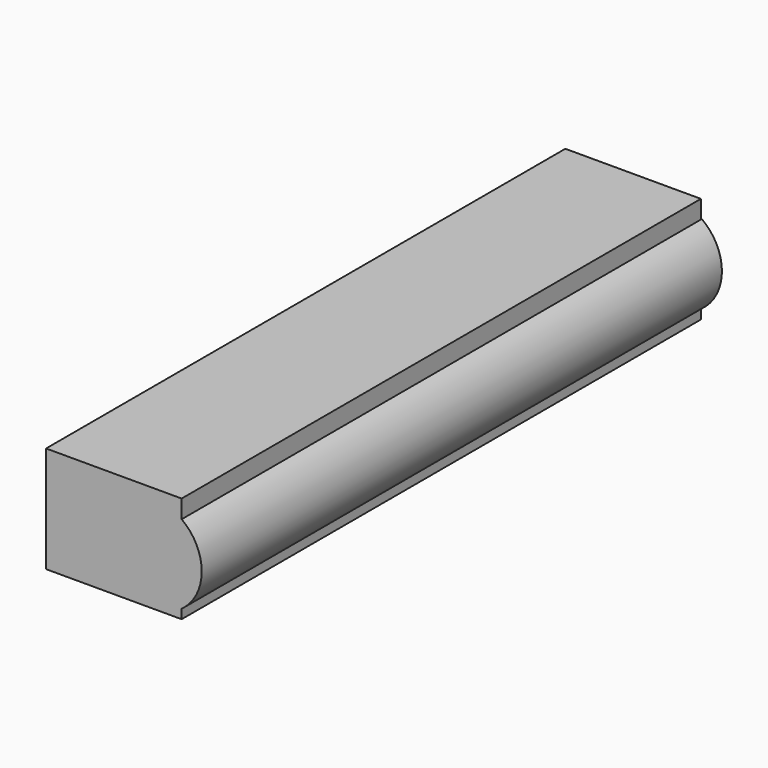
from build123d import *

# Parameters (mm, degrees)
F0_W     = 35.3952348232
F0_H     = 27.7462676167
F1_DEPTH = 155.0669968128
F3_DEPTH = 155.3752869368
F4_DEPTH = 14.4026782364


with BuildPart() as f1:
    # F0 (on Front) → F1 (new body)
    with BuildSketch(Plane.XZ):
        with Locations((1.4998167753, 27.5213085115)):
            Rectangle(F0_W, F0_H)
    extrude(amount=F1_DEPTH)

    # F2 (on face) → F3 (join)
    with BuildSketch(Plane.XZ.offset(155.0669968128)):
        with BuildLine():
            ThreePointArc((19.1974341869, 16.066663446), (23.0552776861, 20.5771904827), (24.4421993637, 26.3481747031))
            ThreePointArc((24.4421993637, 26.3481747031), (23.0552776861, 32.1191589236), (19.1974341869, 36.6296859603))
            Line((19.1974341869, 36.6296859603), (19.1974341869, 16.066663446))
        make_face()
    extrude(amount=-F3_DEPTH)

    # F4 (add): faces of the model
    f4_faces = [f1.faces().sort_by_distance(p)[0] for p in [
        (1.4998167753, 0, 27.5213085115),
        (21.3375597344, 0.3082901239, 26.3481747031),
    ]]
    extrude(f4_faces, amount=F4_DEPTH)


solid = f1.part
